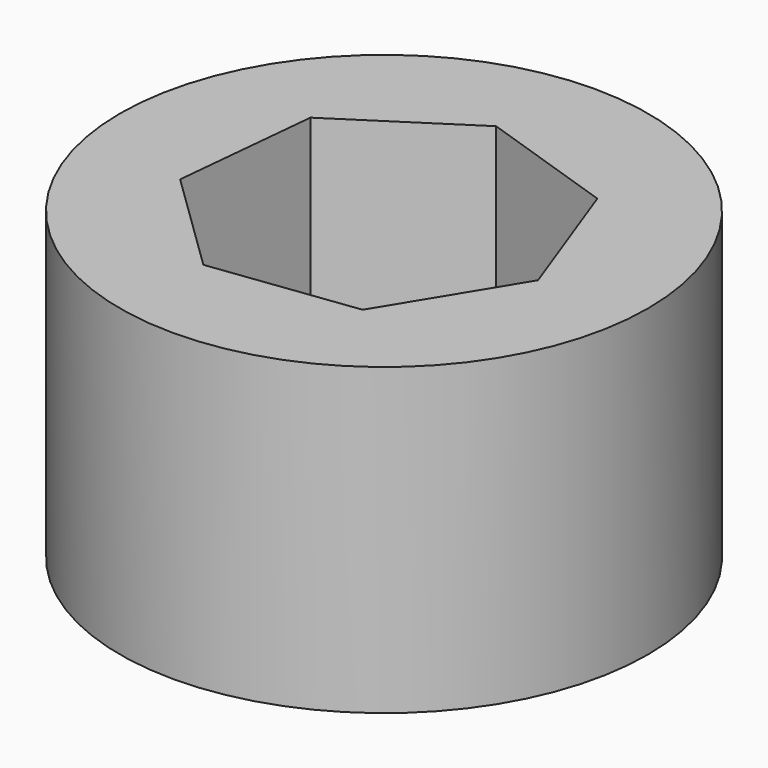
from build123d import *

# Parameters (mm, degrees)
F0_R     = 52.371372
F1_DEPTH = 60.452
F3_DEPTH = 50.292


with BuildPart() as f1:
    # F0 (on Top) → F1 (new body)
    with BuildSketch(Plane.XY):
        Circle(F0_R)
    extrude(amount=F1_DEPTH)

    # F2 (on face) → F3 (cut)
    with BuildSketch(Plane.XY.offset(60.452)):
        Polygon((-4.203559, 33.049536), (-28.460044, 17.319574), (-31.285535, -11.45238), (-10.552381, -31.600459), (18.126932, -27.952747), (33.156295, -3.256047), (23.218292, 23.892523), align=None)
    extrude(amount=-F3_DEPTH, mode=Mode.SUBTRACT)


solid = f1.part
